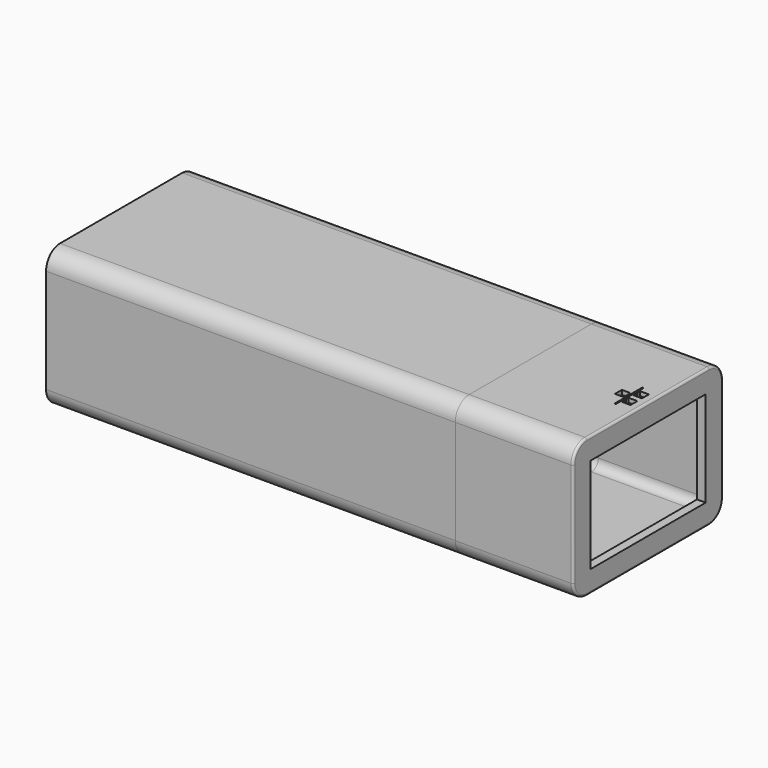
from build123d import *

# Parameters (mm, degrees)
SKETCH_W        = 60.72
SKETCH_H        = 21.6
PAD_DEPTH       = 8
SKETCH001_W     = 13.57
SKETCH001_H     = 21.6
POCKET_DEPTH    = 10
FILLET_R        = 2
THICKNESS_T     = -1
SKETCH006_R     = 1.5
POCKET003_DEPTH = 5
SKETCH003_W     = 13.57
SKETCH003_H     = 21.6
PAD001_DEPTH    = 8
FILLET001_R     = 2
THICKNESS001_T  = -1
SKETCH004_W     = 16.6
SKETCH004_H     = 11
POCKET001_DEPTH = 5
POCKET002_DEPTH = 0.5
FILLET002_R     = 0.25


with BuildPart() as body:
    # Sketch → Pad (new body, symmetric)
    with BuildSketch(Plane.XY):
        Rectangle(SKETCH_W, SKETCH_H)
    extrude(amount=PAD_DEPTH, both=True)

    # Sketch001 → Pocket (cut, symmetric)
    with BuildSketch(Plane.XY):
        with Locations((23.575, 0)):
            Rectangle(SKETCH001_W, SKETCH001_H)
    extrude(amount=POCKET_DEPTH, both=True, mode=Mode.SUBTRACT)

    # Fillet
    fillet_edges = [body.edges().sort_by_distance(p)[0] for p in [
        (-6.785, -10.8, -8),
        (-6.785, 10.8, -8),
        (-6.785, -10.8, 8),
        (-6.785, 10.8, 8),
    ]]
    fillet(fillet_edges, radius=FILLET_R)

    # Thickness
    thickness_openings = [body.faces().sort_by_distance(p)[0] for p in [
        (16.79, 0, 0),
    ]]
    offset(amount=THICKNESS_T, openings=thickness_openings, kind=Kind.INTERSECTION)

    # Sketch006 (on Face4 of Thickness) → Pocket003 (cut)
    with BuildSketch(Plane(origin=(-30.36, 0, 0), x_dir=(0, -1, 0), z_dir=(-1, 0, 0))):
        Circle(SKETCH006_R)
    extrude(amount=-POCKET003_DEPTH, mode=Mode.SUBTRACT)


with BuildPart() as body001:
    # Sketch003 → Pad001 (new body, symmetric)
    with BuildSketch(Plane.XY):
        with Locations((23.575, 0)):
            Rectangle(SKETCH003_W, SKETCH003_H)
    extrude(amount=PAD001_DEPTH, both=True)

    # Fillet001
    fillet001_edges = [body001.edges().sort_by_distance(p)[0] for p in [
        (23.575, -10.8, 8),
        (23.575, -10.8, -8),
        (23.575, 10.8, 8),
        (23.575, 10.8, -8),
    ]]
    fillet(fillet001_edges, radius=FILLET001_R)

    # Thickness001
    thickness001_openings = [body001.faces().sort_by_distance(p)[0] for p in [
        (16.79, 0, 0),
    ]]
    offset(amount=THICKNESS001_T, openings=thickness001_openings, kind=Kind.INTERSECTION)

    # Sketch004 (on Face4 of Thickness001) → Pocket001 (cut)
    with BuildSketch(Plane.YZ.offset(30.36)):
        Rectangle(SKETCH004_W, SKETCH004_H)
    extrude(amount=-POCKET001_DEPTH, mode=Mode.SUBTRACT)

    # Sketch005 (on Face8 of Pocket001) → Pocket002 (cut)
    with BuildSketch(Plane.XY.offset(8)):
        Polygon((28.394418, -0.327356), (29.394418, -0.327356), (29.394418, -1.327356), (28.394418, -1.327356), (28.394418, -0.897356), (28.244418, -0.897356), (28.244418, -2), (28.094418, -2), (28.094418, -0.073024), (27.944418, -0.073024), (27.944418, -0.5), (26.944418, -0.5), (26.944418, 0.5), (27.944418, 0.5), (27.944418, 0.076976), (28.094418, 0.076976), (28.094418, 2), (28.244418, 2), (28.244418, 0.907356), (28.394418, 0.907356), (28.394418, 1.327356), (29.394418, 1.327356), (29.394418, 0.327356), (28.394418, 0.327356), (28.394418, 0.757356), (28.244418, 0.757356), (28.244418, -0.747356), (28.394418, -0.747356), align=None)
    extrude(amount=-POCKET002_DEPTH, mode=Mode.SUBTRACT)

    # Fillet002
    fillet002_edges = [body001.edges().sort_by_distance(p)[0] for p in [
        (30.36, 0, 8),
        (30.36, -10.214214, 7.414214),
        (30.36, -10.8, 0),
        (30.36, -10.214214, -7.414214),
        (30.36, 0, -8),
        (30.36, 10.214214, -7.414214),
        (30.36, 10.8, 0),
        (30.36, 10.214214, 7.414214),
    ]]
    fillet(fillet002_edges, radius=FILLET002_R)


solid = Compound([body.part, body001.part])
